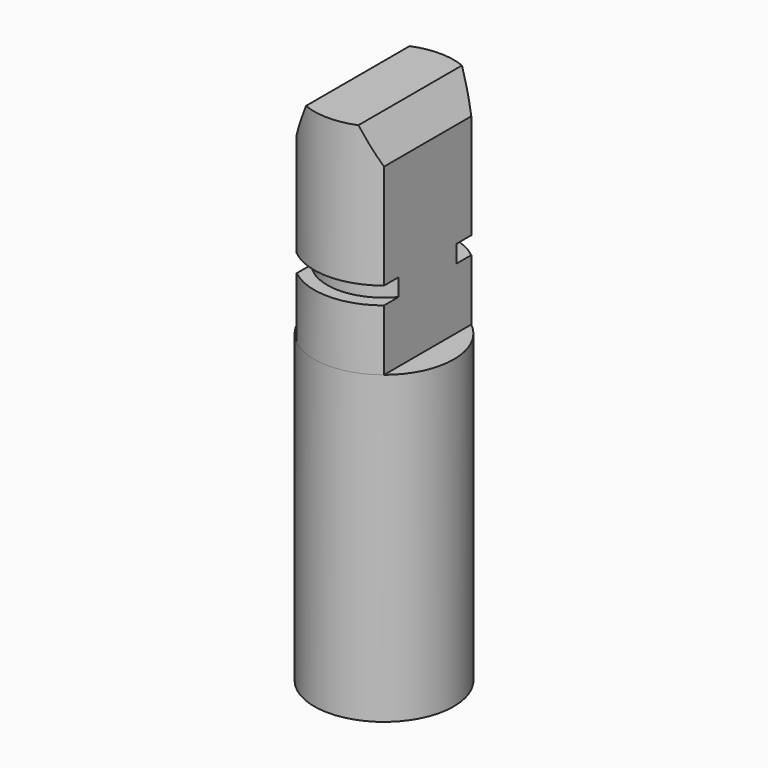
from build123d import *

# Parameters (mm, degrees)
F0_R     = 8
F1_DEPTH = 17.5
F3_DEPTH = 25
F4_SIZE2 = 4
F4_SIZE  = 2
F6_R     = 8
F6_R_2   = 6.5
F7_DEPTH = 2


with BuildPart() as f1:
    # F0 (on Top) → F1 (new body, symmetric)
    with BuildSketch(Plane.XY):
        Circle(F0_R)
    extrude(amount=F1_DEPTH, both=True)

    # F2 (on face) → F3 (join)
    with BuildSketch(Plane.XY.offset(17.5)):
        with BuildLine():
            ThreePointArc((5, 6.2449979984), (0, 8), (-5, 6.2449979984))
            Line((-5, 6.2449979984), (-5, -6.2449979984))
            ThreePointArc((-5, -6.2449979984), (0, -8), (5, -6.2449979984))
            Line((5, -6.2449979984), (5, 6.2449979984))
        make_face()
    extrude(amount=F3_DEPTH)

    # F4
    f4_edges = [f1.edges().sort_by_distance(p)[0] for p in [
        (-5, 0, 42.5),
        (5, 0, 42.5),
    ]]
    f4_side = f1.faces().sort_by_distance((0, 0, 42.5))[0]
    chamfer(f4_edges, length=F4_SIZE, length2=F4_SIZE2, reference=f4_side)

    # F6 (on offset) → F7 (cut)
    with BuildSketch(Plane.XY.offset(26.5)):
        Circle(F6_R)
        Circle(F6_R_2, mode=Mode.SUBTRACT)
    extrude(amount=-F7_DEPTH, mode=Mode.SUBTRACT)


solid = f1.part
